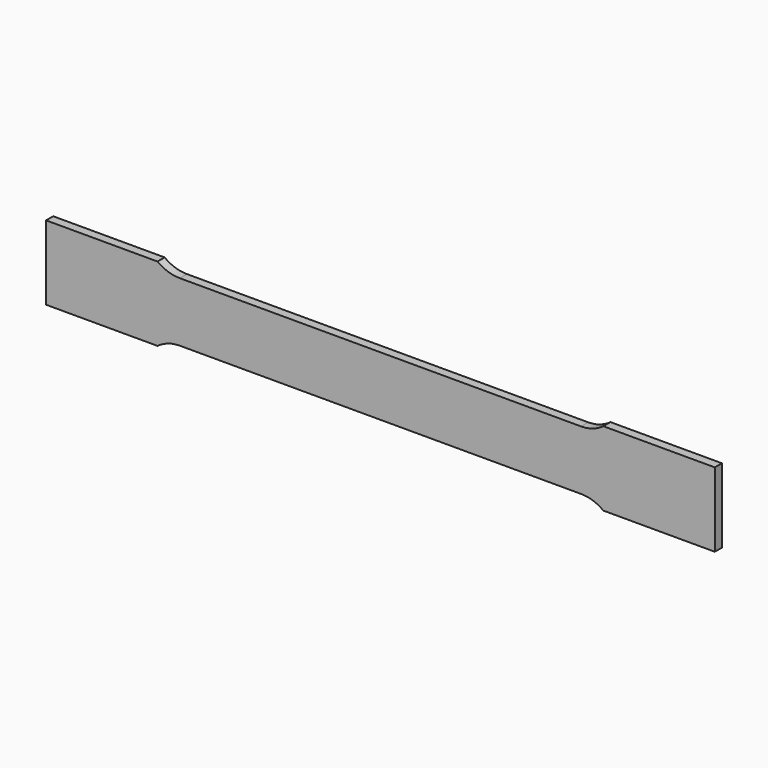
from build123d import *

# Parameters (mm, degrees)
F1_DEPTH = 6


with BuildPart() as f1:
    # F0 (on Front) → F1 (new body)
    with BuildSketch(Plane.XZ):
        with BuildLine():
            Line((135, 20), (0, 20))
            Line((0, 20), (-135, 20))
            ThreePointArc((-135, 20), (-142.905694, 21.282918), (-150, 25))
            Line((-150, 25), (-225, 25))
            Line((-225, 25), (-225, -25))
            Line((-225, -25), (-150, -25))
            ThreePointArc((-150, -25), (-142.905694, -21.282918), (-135, -20))
            Line((-135, -20), (0, -20))
            Line((0, -20), (135, -20))
            ThreePointArc((135, -20), (142.905694, -21.282918), (150, -25))
            Line((150, -25), (225, -25))
            Line((225, -25), (225, 25))
            Line((225, 25), (150, 25))
            ThreePointArc((150, 25), (142.905694, 21.282918), (135, 20))
        make_face()
    extrude(amount=F1_DEPTH)


solid = f1.part
